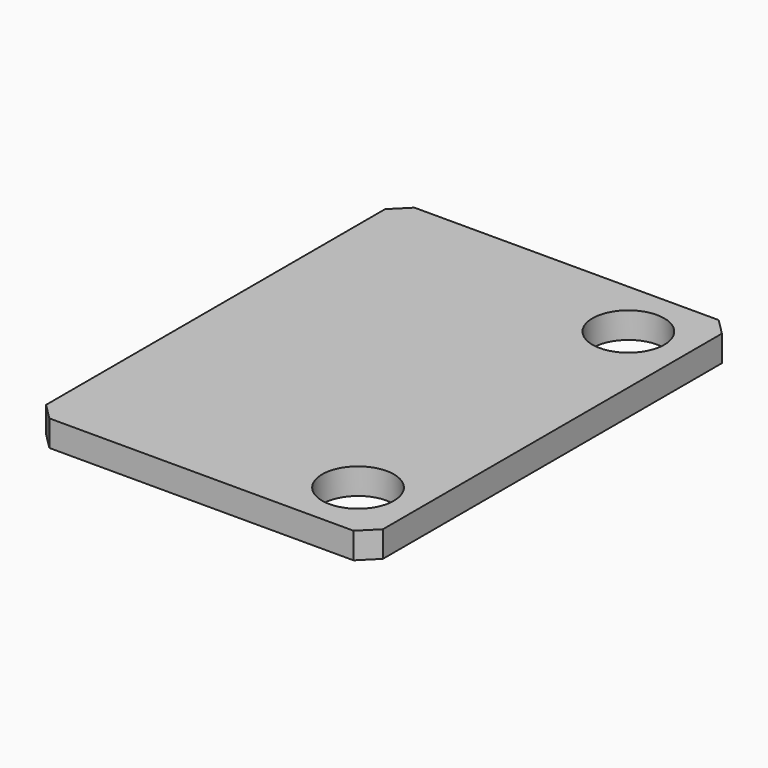
from build123d import *

# Parameters (mm, degrees)
SKETCH003_W     = 15.5
SKETCH003_H     = 21
PAD002_DEPTH    = 1.2
CHAMFER_SIZE    = 0.75
SKETCH004_R     = 1.65
POCKET001_DEPTH = 5


with BuildPart() as part:
    # Sketch003 → Pad002 (new body)
    with BuildSketch(Plane.XY):
        with Locations((-0.75, 0)):
            Rectangle(SKETCH003_W, SKETCH003_H)
    extrude(amount=PAD002_DEPTH)

    # Chamfer
    chamfer_edges = [part.edges().sort_by_distance(p)[0] for p in [
        (-8.5, -10.5, 0.6),
        (7, 10.5, 0.6),
        (7, -10.5, 0.6),
        (-8.5, 10.5, 0.6),
    ]]
    chamfer(chamfer_edges, length=CHAMFER_SIZE)

    # Sketch004 (on Face5 of Chamfer) → Pocket001 (cut)
    with BuildSketch(Plane.XY.offset(1.2)):
        with Locations((4.275, 7.775)):
            Circle(SKETCH004_R)
        with Locations((4.275, -7.775)):
            Circle(SKETCH004_R)
    extrude(amount=-POCKET001_DEPTH, mode=Mode.SUBTRACT)


with BuildPart() as part_1:
    # Body placement: moved
    add(part.part.moved(Location((0, 0, -1.65))))


solid = part_1.part
